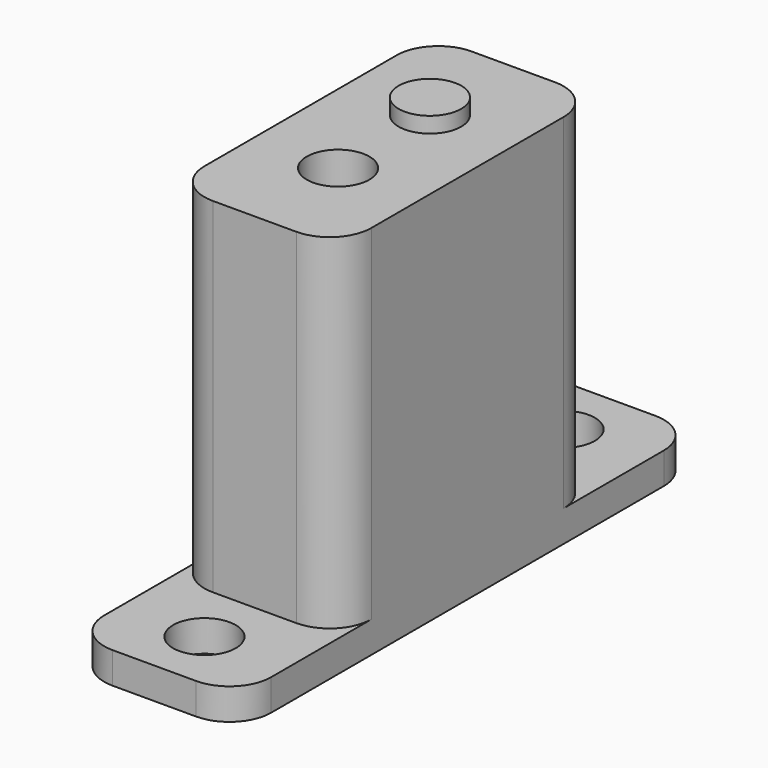
from build123d import *

# Parameters (mm, degrees)
F0_W     = 8
F0_H     = 15.5
F0_R     = 1.5
F1_DEPTH = 18
F2_D     = 3
F3_DEPTH = 0.75
F4_W     = 8
F4_H     = 6
F5_DEPTH = 1.5
F6_D     = 3
F7_R     = 2


with BuildPart() as f1:
    # F0 (on Top) → F1 (new body)
    with BuildSketch(Plane.XY):
        with Locations((4, 7.75)):
            Rectangle(F0_W, F0_H)
        with Locations((4, 10.5)):
            Circle(F0_R, mode=Mode.SUBTRACT)
        with Locations((4, 10.5)):
            Circle(F0_R)
    extrude(amount=-F1_DEPTH)

    # F2 (through all)
    with Locations(Plane.XY):
        with Locations((4, 5)):
            Hole(F2_D / 2)

    # F0 (on Top) → F3 (join)
    with BuildSketch(Plane.XY):
        with Locations((4, 10.5)):
            Circle(F0_R)
    extrude(amount=F3_DEPTH)

    # F4 (on face) → F5 (join)
    with BuildSketch(Plane(origin=(0, 0, -18), x_dir=(1, 0, 0), z_dir=(0, 0, -1))):
        with Locations((4, 3)):
            Rectangle(F4_W, F4_H)
        with Locations((4, -18.5)):
            Rectangle(F4_W, F4_H)
    extrude(amount=-F5_DEPTH)

    # F6 (through all)
    with Locations(Plane(origin=(0, 0, -18), x_dir=(1, 0, 0), z_dir=(0, 0, -1))):
        with Locations((4, 3), (4, -18.5)):
            Hole(F6_D / 2)

    # F7
    f7_edges = [f1.edges().sort_by_distance(p)[0] for p in [
        (0, 0, -8.25),
        (8, 0, -8.25),
        (8, 15.5, -8.25),
        (0, 15.5, -8.25),
        (8, -6, -17.25),
        (0, -6, -17.25),
        (8, 21.5, -17.25),
        (0, 21.5, -17.25),
    ]]
    fillet(f7_edges, radius=F7_R)


solid = f1.part
